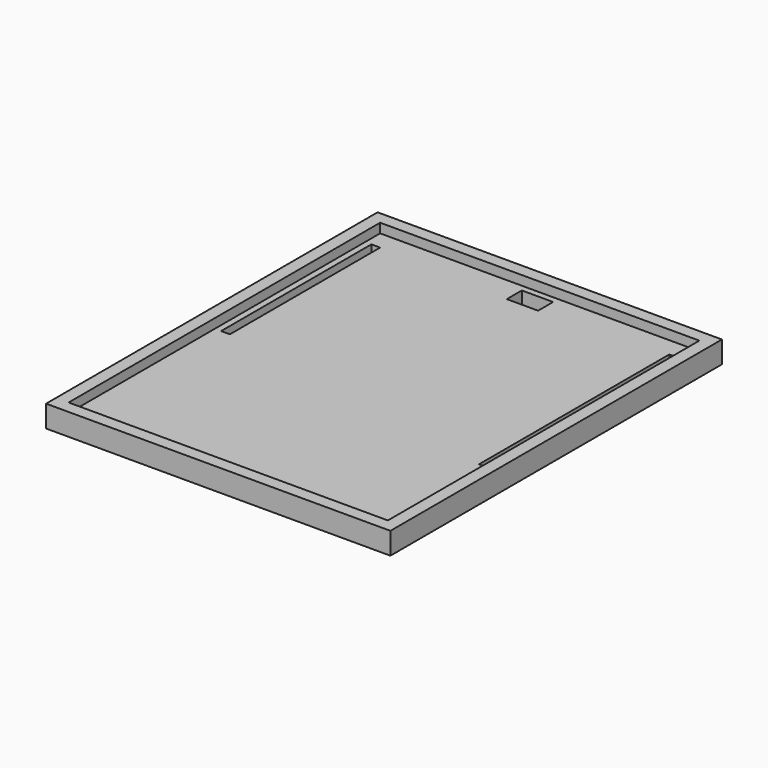
from build123d import *

# Parameters (mm, degrees)
F0_W     = 69.85
F0_H     = 4.445
F1_DEPTH = 42.037
F2_T     = -2.54
F3_W     = 1.778
F3_H     = 38.1
F3_W_2   = 6.35
F3_H_2   = 3.81
F3_H_3   = 48.26
F4_DEPTH = 25.4


with BuildPart() as f1:
    # F0 (on Front) → F1 (new body, symmetric)
    with BuildSketch(Plane.XZ):
        with Locations((2.62026, -14.102518)):
            Rectangle(F0_W, F0_H)
    extrude(amount=F1_DEPTH, both=True)

    # F2
    f2_openings = [f1.faces().sort_by_distance(p)[0] for p in [
        (2.62026, 0, -11.880018),
    ]]
    offset(amount=F2_T, openings=f2_openings)

    # F3 (on face) → F4 (cut)
    with BuildSketch(Plane(origin=(0, 0, -16.325018), x_dir=(1, 0, 0), z_dir=(0, 0, -1))):
        with Locations((-27.60574, -16.637)):
            Rectangle(F3_W, F3_H)
        with Locations((3.175, -36.322)):
            Rectangle(F3_W_2, F3_H_2)
        with Locations((32.84626, -11.557)):
            Rectangle(F3_W, F3_H_3)
    extrude(amount=-F4_DEPTH, mode=Mode.SUBTRACT)


solid = f1.part
